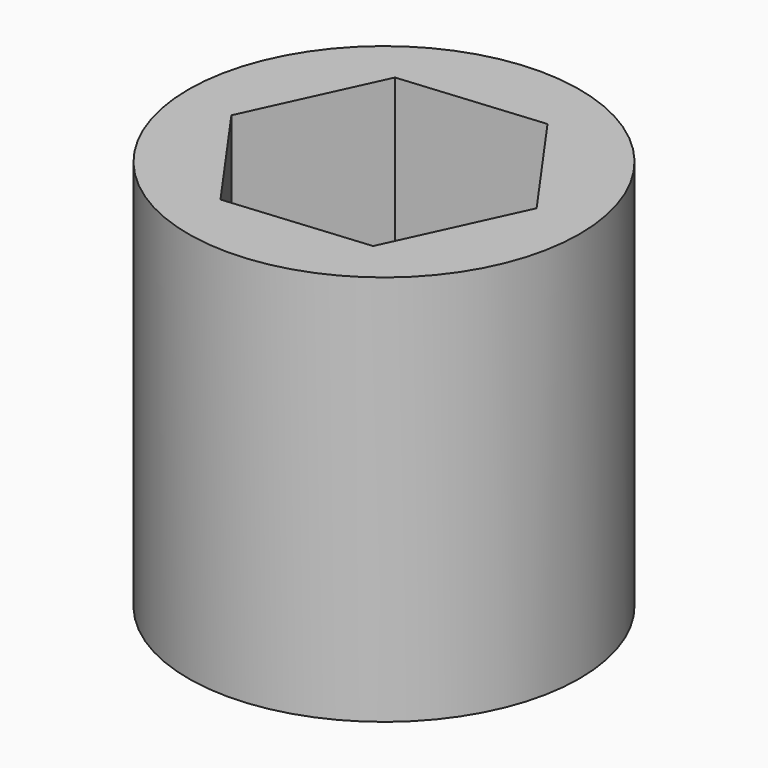
from build123d import *

# Parameters (mm, degrees)
F0_R     = 12.5
F1_DEPTH = 25
F3_DEPTH = 12
F5_DEPTH = 25


with BuildPart() as f1:
    # F0 (on Top) → F1 (new body)
    with BuildSketch(Plane.XY):
        Circle(F0_R)
    extrude(amount=F1_DEPTH)

    # F2 (on face) → F3 (cut)
    with BuildSketch(Plane.XY.offset(25)):
        Polygon((-9.084021, -0.833007), (-3.820606, -8.283496), (5.263415, -7.450489), (9.084021, 0.833007), (3.820606, 8.283496), (-5.263415, 7.450489), align=None)
    extrude(amount=-F3_DEPTH, mode=Mode.SUBTRACT)

    # F4 (on face) → F5 (cut)
    with BuildSketch(Plane(origin=(0, 0, 0), x_dir=(1, 0, 0), z_dir=(0, 0, -1))):
        Polygon((0.158226, 4.522716), (-4.522716, 0.158226), (-0.158226, -4.522716), (4.522716, -0.158226), align=None)
    extrude(amount=-F5_DEPTH, mode=Mode.SUBTRACT)


solid = f1.part
